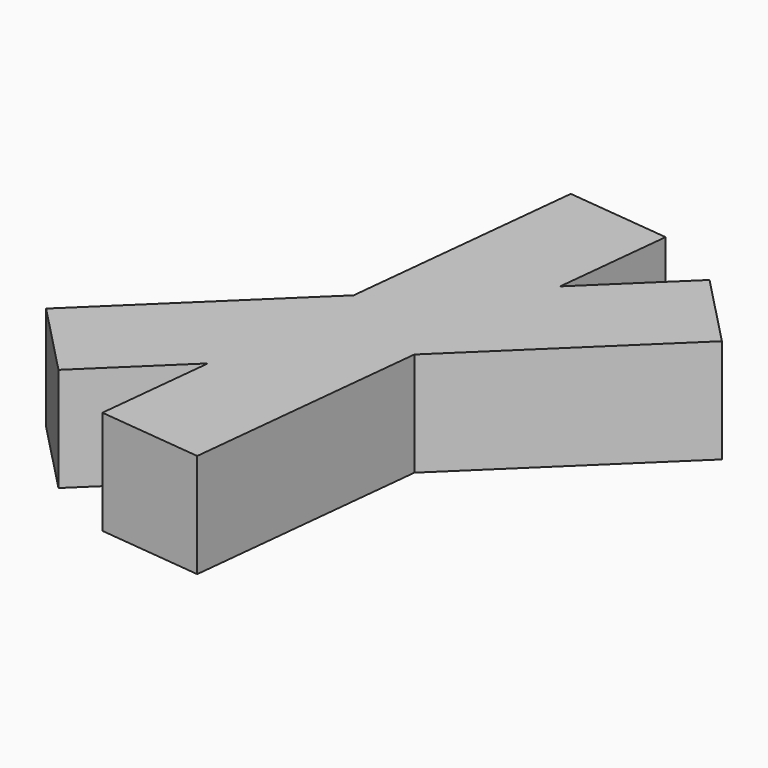
from build123d import *

# Parameters (mm, degrees)
BOX001_W               = 10
BOX001_H               = 2
BOX001_DEPTH           = 2
BOX001_PLACEMENT_ANGLE = 20
BOX_W                  = 10
BOX_H                  = 2
BOX_DEPTH              = 2
BOX_PLACEMENT_ANGLE    = 20
FUSION_PLACEMENT_ANGLE = 64


with BuildPart() as cube001:
    # Box001 → Box001 (new body)
    with BuildSketch(Plane.XY):
        with Locations((5, 1)):
            Rectangle(BOX001_W, BOX001_H)
    extrude(amount=BOX001_DEPTH)


with BuildPart() as cube001_1:
    # Box001 placement: moved
    add(cube001.part.moved(Location((-5.040483, 0.770408, 0))).rotate(Axis((-5.040483, 0.770408, 0), (0, 0, -1)), BOX001_PLACEMENT_ANGLE))


with BuildPart() as fusion:
    # Box → Box (new body)
    with BuildSketch(Plane.XY):
        with Locations((5, 1)):
            Rectangle(BOX_W, BOX_H)
    extrude(amount=BOX_DEPTH)


with BuildPart() as fusion_1:
    # Box placement: moved
    add(fusion.part.moved(Location((-4.356443, -2.649793, 0))).rotate(Axis((-4.356443, -2.649793, 0), (0, 0, 1)), BOX_PLACEMENT_ANGLE))

    # Fusion: union Cube001
    add(cube001_1.part)


with BuildPart() as fusion_2:
    # Fusion placement: moved
    add(fusion_1.part.rotate(Axis((0, 0, 0), (0, 0, 1)), FUSION_PLACEMENT_ANGLE))


solid = fusion_2.part
